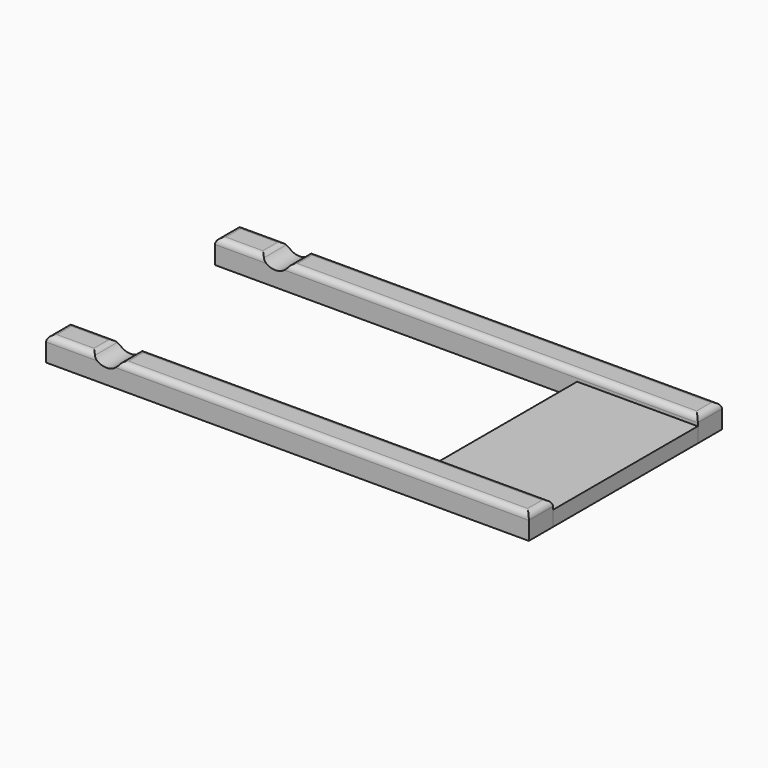
from build123d import *

# Parameters (mm, degrees)
F1_DEPTH = 8
F2_W     = 40
F2_H     = 60
F3_DEPTH = 5
F5_DEPTH = 500
F7_DEPTH = 25
F8_R     = 2
F8_2_R   = 2


with BuildPart() as f1:
    # F0 (on Top) → F1 (new body)
    with BuildSketch(Plane.XY):
        Polygon((0, 10), (0, 0), (160, 0), (160, 10), (140, 10), align=None)
    extrude(amount=F1_DEPTH)


with BuildPart() as f1b:
    # F0 (on Top) → F1, piece 2 (new body)
    with BuildSketch(Plane.XY):
        Polygon((140, 70), (160, 70), (160, 80), (0, 80), (0, 70), align=None)
    extrude(amount=F1_DEPTH)


with BuildPart() as f3:
    # F2 (on Top) → F3 (new body)
    with BuildSketch(Plane.XY):
        with Locations((140, 40)):
            Rectangle(F2_W, F2_H)
    extrude(amount=F3_DEPTH)


with BuildPart() as f5_tool:
    # F4 (on face) → F5 (new body)
    with BuildSketch(Plane.XZ):
        with BuildLine():
            ThreePointArc((15.417424305, 8), (21.0215482184, 5.1054684353), (25, 10))
            ThreePointArc((25, 10), (18.9784517816, 14.8945315647), (15.417424305, 8))
        make_face()
    extrude(amount=-F5_DEPTH)


with BuildPart() as f1_1:
    add(f1.part)

    # F5: cut by f5_tool
    add(f5_tool.part, mode=Mode.SUBTRACT)

    # F6 (on face) → F7 (cut)
    with BuildSketch(Plane(origin=(0, 80, 0), x_dir=(-1, 0, 0), z_dir=(0, 1, 0))):
        with BuildLine():
            ThreePointArc((-15.417424305, 8), (-15.1054684353, 8.9784517816), (-15, 10))
            ThreePointArc((-15, 10), (-24.8945315647, 11.0215482184), (-15.417424305, 8))
        make_face()
    extrude(amount=-F7_DEPTH, mode=Mode.SUBTRACT)

    # F8#2
    f8_2_edges = [f1_1.edges().sort_by_distance(p)[0] for p in [
        (92.291288, 10, 8),
        (160, 5, 8),
        (92.291288, 0, 8),
        (24.582576, 5, 8),
        (7.708712, 10, 8),
        (15.417424, 5, 8),
        (7.708712, 0, 8),
        (0, 5, 8),
    ]]
    fillet(f8_2_edges, radius=F8_2_R)


with BuildPart() as f1b_1:
    add(f1b.part)

    # F5: cut by f5_tool
    add(f5_tool.part, mode=Mode.SUBTRACT)

    # F8
    f8_edges = [f1b_1.edges().sort_by_distance(p)[0] for p in [
        (24.582576, 75, 8),
        (92.291288, 80, 8),
        (160, 75, 8),
        (92.291288, 70, 8),
        (7.708712, 70, 8),
        (0, 75, 8),
        (7.708712, 80, 8),
        (15.417424, 75, 8),
    ]]
    fillet(f8_edges, radius=F8_R)


solid = Compound([f3.part, f1_1.part, f1b_1.part])
